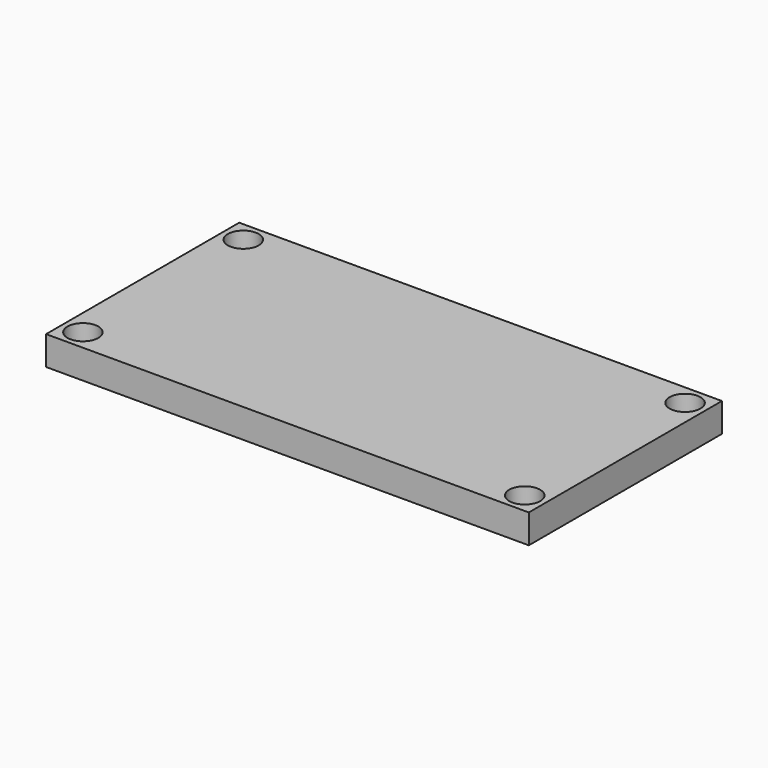
from build123d import *

# Parameters (mm, degrees)
F0_W     = 50
F0_H     = 25
F1_DEPTH = 3
F3_D     = 3.2
F4_D     = 3.2
F5_D     = 3.2
F6_D     = 3.2


with BuildPart() as f1:
    # F0 (on Top) → F1 (new body)
    with BuildSketch(Plane.XY):
        with Locations((25, 12.5)):
            Rectangle(F0_W, F0_H)
    extrude(amount=F1_DEPTH)

    # F3 (through all)
    with Locations(Plane.XY.offset(3)):
        with Locations((2.12132, 22.87868)):
            Hole(F3_D / 2)

    # F4 (through all)
    with Locations(Plane.XY.offset(3)):
        with Locations((2.12132, 2.12132)):
            Hole(F4_D / 2)

    # F5 (through all)
    with Locations(Plane.XY.offset(3)):
        with Locations((47.87868, 2.12132)):
            Hole(F5_D / 2)

    # F6 (through all)
    with Locations(Plane.XY.offset(3)):
        with Locations((47.87868, 22.87868)):
            Hole(F6_D / 2)


solid = f1.part
